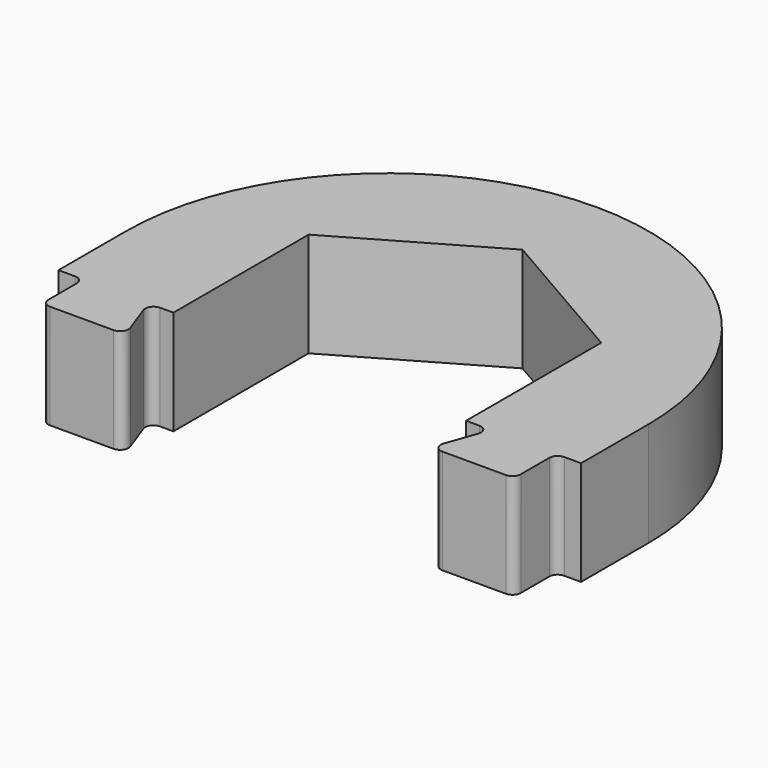
from build123d import *

# Parameters (mm, degrees)
F1_DEPTH = 10


with BuildPart() as f1:
    # F0 (on Top) → F1 (new body)
    with BuildSketch(Plane.XY):
        with BuildLine():
            Line((0, 16.165808), (14, 8.082904))
            Line((14, 8.082904), (14, -8.082904))
            Line((14, -8.082904), (15.261739, -8.082904))
            ThreePointArc((15.261739, -8.082904), (15.916254, -8.422893), (16.014449, -9.153879))
            Line((16.014449, -9.153879), (14.985551, -12.011928))
            ThreePointArc((14.985551, -12.011928), (15.083746, -12.742914), (15.738261, -13.082904))
            Line((15.738261, -13.082904), (21.8, -13.082904))
            ThreePointArc((21.8, -13.082904), (22.365685, -12.848589), (22.6, -12.282904))
            Line((22.6, -12.282904), (22.6, -8.882904))
            ThreePointArc((22.6, -8.882904), (22.834315, -8.317218), (23.4, -8.082904))
            Line((23.4, -8.082904), (25, -8.082904))
            Line((25, -8.082904), (25, -7.882904))
            Line((25, -7.882904), (25, 0))
            ThreePointArc((25, 0), (0, 25), (-25, 0))
            Line((-25, 0), (-25, -7.882904))
            Line((-25, -7.882904), (-25, -8.082904))
            Line((-25, -8.082904), (-23.4, -8.082904))
            ThreePointArc((-23.4, -8.082904), (-22.834315, -8.317218), (-22.6, -8.882904))
            Line((-22.6, -8.882904), (-22.6, -12.282904))
            ThreePointArc((-22.6, -12.282904), (-22.365685, -12.848589), (-21.8, -13.082904))
            Line((-21.8, -13.082904), (-15.738261, -13.082904))
            ThreePointArc((-15.738261, -13.082904), (-15.083746, -12.742914), (-14.985551, -12.011928))
            Line((-14.985551, -12.011928), (-16.014449, -9.153879))
            ThreePointArc((-16.014449, -9.153879), (-15.916254, -8.422893), (-15.261739, -8.082904))
            Line((-15.261739, -8.082904), (-14, -8.082904))
            Line((-14, -8.082904), (-14, 8.082904))
            Line((-14, 8.082904), (0, 16.165808))
        make_face()
    extrude(amount=F1_DEPTH)


solid = f1.part
